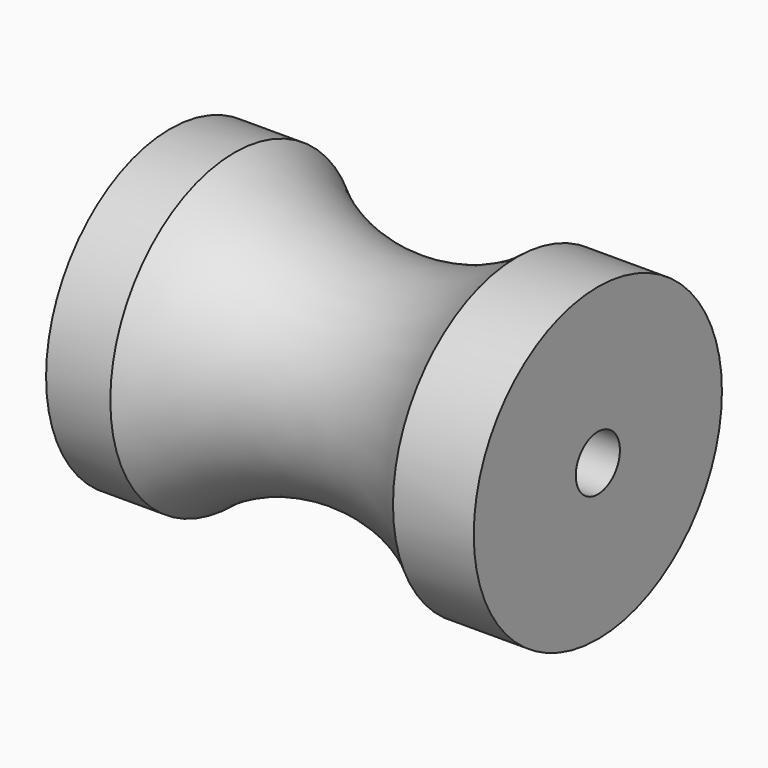
from build123d import *

# Parameters (mm, degrees)
F2_R      = 4.653054
F3_DEPTH  = 25.4
F3_FACE_R = 4.653054
F4_DEPTH  = 97.518329


with BuildPart() as f1:
    # F0 (on Front) → F1 (revolve)
    with BuildSketch(Plane.XZ):
        with BuildLine():
            Line((-13.618723, 0), (0, 0))
            Line((0, 0), (0, 26.15414))
            Line((0, 26.15414), (-13.618723, 26.15414))
            ThreePointArc((-13.618723, 26.15414), (-37.451489, 18.678233), (-61.284255, 26.15414))
            Line((-61.284255, 26.15414), (-72.117329, 26.15414))
            Line((-72.117329, 26.15414), (-72.117329, 0))
            Line((-72.117329, 0), (-61.284255, 0))
            ThreePointArc((-61.284255, 0), (-37.451489, 8.543639), (-13.618723, 0))
        make_face()
    revolve(axis=Axis((-6.809361, 0, 26.15414), (-1, 0, 0)))

    # F2 (on face) → F3 (join)
    with BuildSketch(Plane(origin=(-72.117329, 0, 0), x_dir=(0, -1, 0), z_dir=(-1, 0, 0))):
        with Locations((0, 26.15414)):
            Circle(F2_R)
    extrude(amount=F3_DEPTH)

    # F3_face (on face) → F4 (cut, through all)
    with BuildSketch(Plane(origin=(-97.517329, 0, 26.15414), x_dir=(0, -1, 0), z_dir=(-1, 0, 0))):
        Circle(F3_FACE_R)
    extrude(amount=-F4_DEPTH, mode=Mode.SUBTRACT)


solid = f1.part
